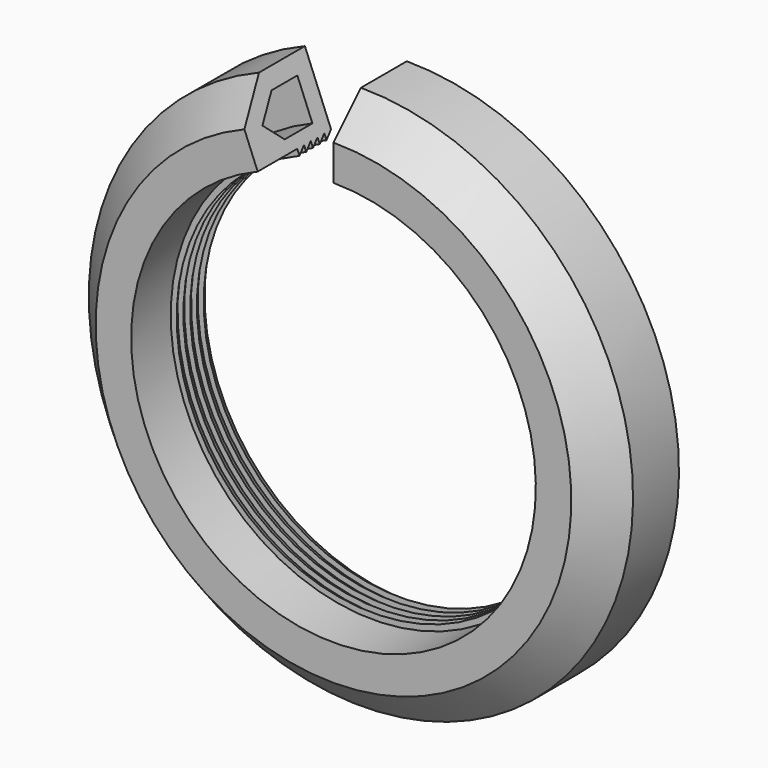
from build123d import *

# Parameters (mm, degrees)
F2_ANGLE = 338
F3_R     = 43
F3_R_2   = 23
F4_DEPTH = 25


with BuildPart() as f2:
    # F1 (on Right) → F2 (revolve)
    with BuildSketch(Plane.YZ):
        Polygon((-14.592193, 16.6), (-13.878119, 17.1), (-13.878119, 26.85), (-14.878119, 26.85), (-21.628119, 20.1), (-21.628119, 17.1), (-17.448489, 17.1), (-17.448489, 16.6), (-16.734415, 17.1), (-16.734415, 16.6), (-16.020341, 17.1), (-16.020341, 16.6), (-15.306267, 17.1), (-15.306267, 16.6), (-14.592193, 17.1), align=None)
    revolve(axis=Axis((0, -8.217514, 0), (0, 1, 0)), revolution_arc=F2_ANGLE)

    # F3 (on Front) → F4 (cut)
    with BuildSketch(Plane.XZ):
        Circle(F3_R)
        Circle(F3_R_2, mode=Mode.SUBTRACT)
    extrude(amount=F4_DEPTH, mode=Mode.SUBTRACT)

    # F5 (on face) → F6 (revolve, cut)
    with BuildSketch(Plane(origin=(0, 0, 0), x_dir=(0, 1, 0), z_dir=(0.927184, 0, 0.374607))):
        Polygon((-15.378119, 18.1), (-15.378119, 21.5), (-18.106798, 21.5), (-19.910035, 19.696764), (-18.313271, 18.1), align=None)
    revolve(axis=Axis((0, -8.217514, 0), (0, 1, 0)), mode=Mode.SUBTRACT)


solid = f2.part
